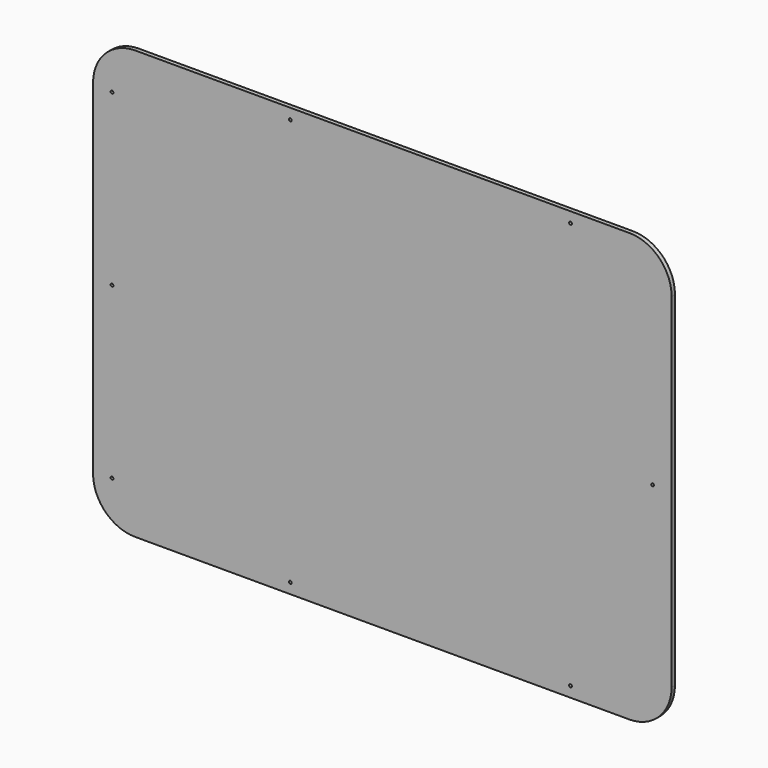
from build123d import *

# Parameters (mm, degrees)
F0_W     = 412
F0_H     = 305
F1_DEPTH = 3
F2_R     = 30
F4_DEPTH = 25


with BuildPart() as f1:
    # F0 (on Front) → F1 (new body)
    with BuildSketch(Plane.XZ):
        Rectangle(F0_W, F0_H)
    extrude(amount=F1_DEPTH)

    # F2
    f2_edges = [f1.edges().sort_by_distance(p)[0] for p in [
        (-206, -1.5, 152.5),
        (206, -1.5, 152.5),
        (-206, -1.5, -152.5),
        (206, -1.5, -152.5),
    ]]
    fillet(f2_edges, radius=F2_R)

    # F3 (on face) → F4 (cut)
    with BuildSketch(Plane.XZ.offset(3)):
        with BuildLine():
            Line((-192.5, 120), (-192.5, 122))
            ThreePointArc((-192.5, 122), (-193.5, 121), (-192.5, 120))
        make_face()
        with BuildLine():
            ThreePointArc((-191.5, 121), (-191.7928932188, 121.7071067812), (-192.5, 122))
            Line((-192.5, 122), (-192.5, 120))
            ThreePointArc((-192.5, 120), (-191.7928932188, 120.2928932188), (-191.5, 121))
        make_face()
        with BuildLine():
            Line((-66.5, 145), (-64.5, 145))
            ThreePointArc((-64.5, 145), (-65.5, 146), (-66.5, 145))
        make_face()
        with BuildLine():
            ThreePointArc((-66.5, 145), (-65.5, 144), (-64.5, 145))
            Line((-64.5, 145), (-66.5, 145))
        make_face()
        with BuildLine():
            Line((133, 145), (135, 145))
            ThreePointArc((135, 145), (134, 146), (133, 145))
        make_face()
        with BuildLine():
            ThreePointArc((133, 145), (134, 144), (135, 145))
            Line((135, 145), (133, 145))
        make_face()
        with BuildLine():
            Line((192.5, -1), (192.5, 1))
            ThreePointArc((192.5, 1), (191.5, 0), (192.5, -1))
        make_face()
        with BuildLine():
            ThreePointArc((193.5, 0), (193.2071067812, 0.7071067812), (192.5, 1))
            Line((192.5, 1), (192.5, -1))
            ThreePointArc((192.5, -1), (193.2071067812, -0.7071067812), (193.5, 0))
        make_face()
        with BuildLine():
            Line((133, -145), (135, -145))
            ThreePointArc((135, -145), (134, -144), (133, -145))
        make_face()
        with BuildLine():
            ThreePointArc((133, -145), (134, -146), (135, -145))
            Line((135, -145), (133, -145))
        make_face()
        with BuildLine():
            Line((-66.5, -145), (-64.5, -145))
            ThreePointArc((-64.5, -145), (-65.5, -144), (-66.5, -145))
        make_face()
        with BuildLine():
            ThreePointArc((-66.5, -145), (-65.5, -146), (-64.5, -145))
            Line((-64.5, -145), (-66.5, -145))
        make_face()
        with BuildLine():
            Line((-192.5, -122), (-192.5, -120))
            ThreePointArc((-192.5, -120), (-193.5, -121), (-192.5, -122))
        make_face()
        with BuildLine():
            ThreePointArc((-191.5, -121), (-191.7928932188, -120.2928932188), (-192.5, -120))
            Line((-192.5, -120), (-192.5, -122))
            ThreePointArc((-192.5, -122), (-191.7928932188, -121.7071067812), (-191.5, -121))
        make_face()
        with BuildLine():
            Line((-192.5, -1), (-192.5, 1))
            ThreePointArc((-192.5, 1), (-193.5, 0), (-192.5, -1))
        make_face()
        with BuildLine():
            ThreePointArc((-191.5, 0), (-191.7928932188, 0.7071067812), (-192.5, 1))
            Line((-192.5, 1), (-192.5, -1))
            ThreePointArc((-192.5, -1), (-191.7928932188, -0.7071067812), (-191.5, 0))
        make_face()
    extrude(amount=-F4_DEPTH, mode=Mode.SUBTRACT)


solid = f1.part
